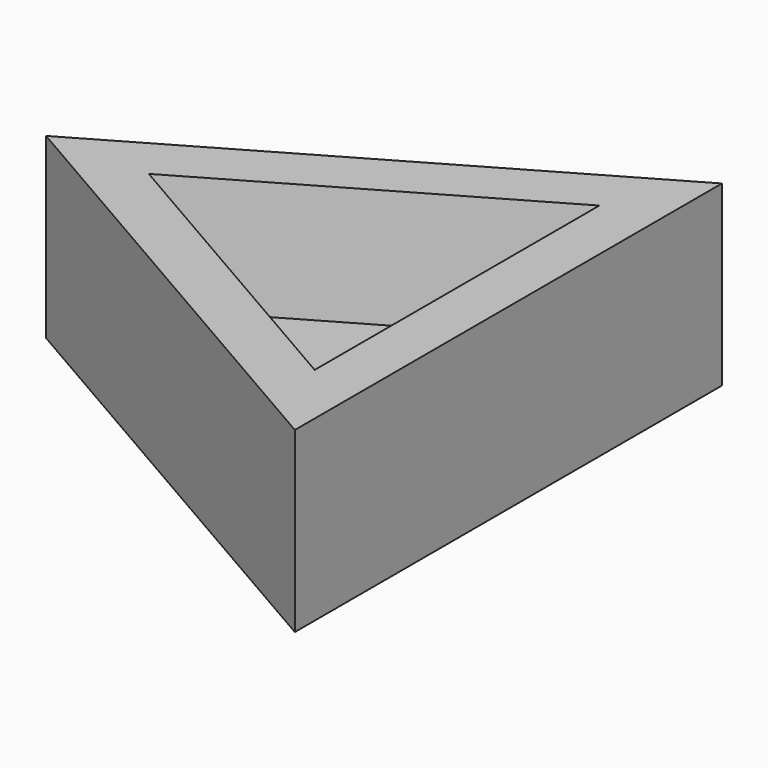
from build123d import *

# Parameters (mm, degrees)
F1_DEPTH = 10
F2_DEPTH = 5
F3_R     = 4
F4_DEPTH = 7
F5_R     = 1.448528


with BuildPart() as f1:
    # F0 (on Top) → F1 (new body)
    with BuildSketch(Plane.XY):
        Polygon((12.990381, -22.5), (12.990381, 22.5), (-25.980762, 0), align=None)
        Polygon((-17.320508, 0), (8.660254, 15), (8.660254, -15), align=None, mode=Mode.SUBTRACT)
    extrude(amount=F1_DEPTH)

    # F0 (on Top) → F2 (join)
    with BuildSketch(Plane.XY):
        Polygon((12.990381, -22.5), (12.990381, 22.5), (-25.980762, 0), align=None)
        Polygon((-17.320508, 0), (8.660254, 15), (8.660254, -15), align=None, mode=Mode.SUBTRACT)
        Polygon((8.660254, -15), (8.660254, 15), (-17.320508, 0), align=None)
    extrude(amount=-F2_DEPTH)

    # F3 (on face) → F4 (join)
    with BuildSketch(Plane(origin=(0, 0, -5), x_dir=(1, 0, 0), z_dir=(0, 0, -1))):
        Circle(F3_R)
    extrude(amount=F4_DEPTH)

    # F5
    f5_edges = [f1.edges().sort_by_distance(p)[0] for p in [
        (4, 0, -8.5),
        (-4, 0, -5),
        (-4, 0, -12),
    ]]
    fillet(f5_edges, radius=F5_R)


solid = f1.part
